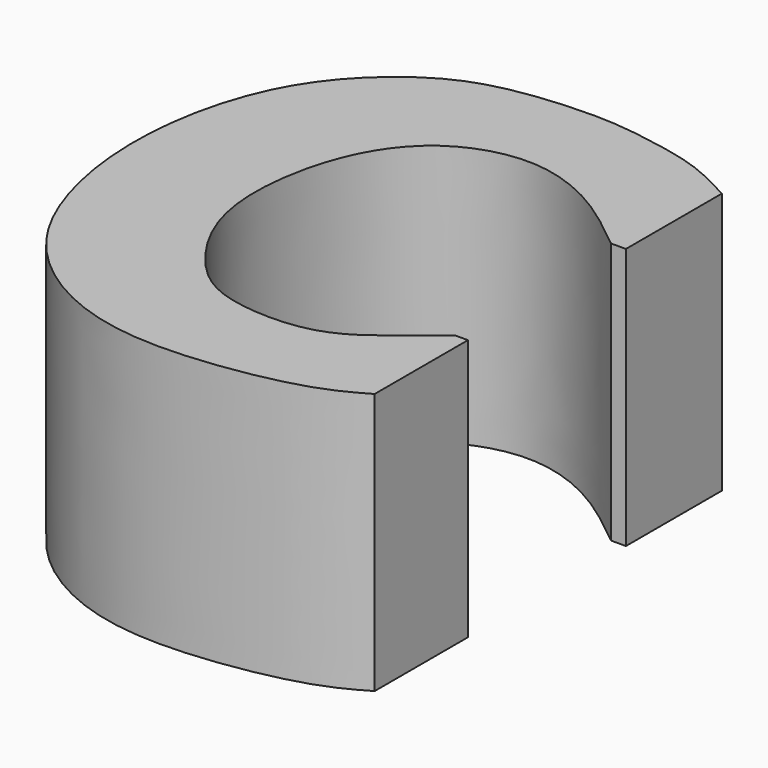
from build123d import *

# Parameters (mm, degrees)
F1_DEPTH = 50.8


with BuildPart() as f1:
    # F0 (on Top) → F1 (new body)
    with BuildSketch(Plane.XY):
        with BuildLine():
            add(Edge.make_bspline(
                [(12.5923734158, 20.1477967203), (8.5378882426, 23.4606895893), (0.5880195743, 29.9564744043), (-13.5723950527, 34.8123248788), (-27.505540987, 30.6761880298), (-36.2189771605, 20.5065206807), (-40.5637016446, 5.4126543827), (-40.0874503586, -11.0386026239), (-31.172429541, -24.8648537674), (-21.9212111533, -31.1943642029), (-4.4598733976, -31.7399141483), (4.9806068389, -24.7583374456), (10.3687890055, -20.3477972212), (12.9798306152, -18.2105079293)],
                knots=[0, 0, 0, 0, 0.09658522, 0.1893803484, 0.2793768975, 0.3668929591, 0.4629903693, 0.5619555881, 0.6585708185, 0.7397068102, 0.8385496993, 0.9217633258, 1, 1, 1, 1], degree=3))
            Line((12.5923734158, 20.1477967203), (15.4983047396, 20.1477967203))
            Line((15.4983047396, 20.1477967203), (15.4983047396, 43.4506423771))
            add(Edge.make_bspline(
                [(15.4983047396, 43.4506423771), (12.5130217377, 45.043913189), (6.5148490228, 48.2456206987), (-4.1283475984, 50.3150768378), (-14.3974967296, 51.8599577704), (-33.7070268178, 50.4906590325), (-46.3190961674, 44.0806148264), (-60.5572978485, 29.7685284336), (-67.3750902628, -0.1533616492), (-59.0287600264, -32.6869046935), (-37.6075504341, -47.9304695631), (-16.3517087465, -50.1642180017), (6.6513745131, -45.9316602301), (12.9943733352, -42.2876747596), (15.4983047396, -40.8498011529)],
                knots=[0, 0, 0, 0, 0.0629062582, 0.1265773644, 0.190970766, 0.276377309, 0.3502852829, 0.4358740314, 0.5439157873, 0.656118943, 0.7528866696, 0.8442584315, 0.9385065099, 1, 1, 1, 1], degree=3))
            Line((15.4983047396, -40.8498011529), (15.4983047396, -18.2105079293))
            Line((15.4983047396, -18.2105079293), (12.9798306152, -18.2105079293))
        make_face()
    extrude(amount=F1_DEPTH)


solid = f1.part
